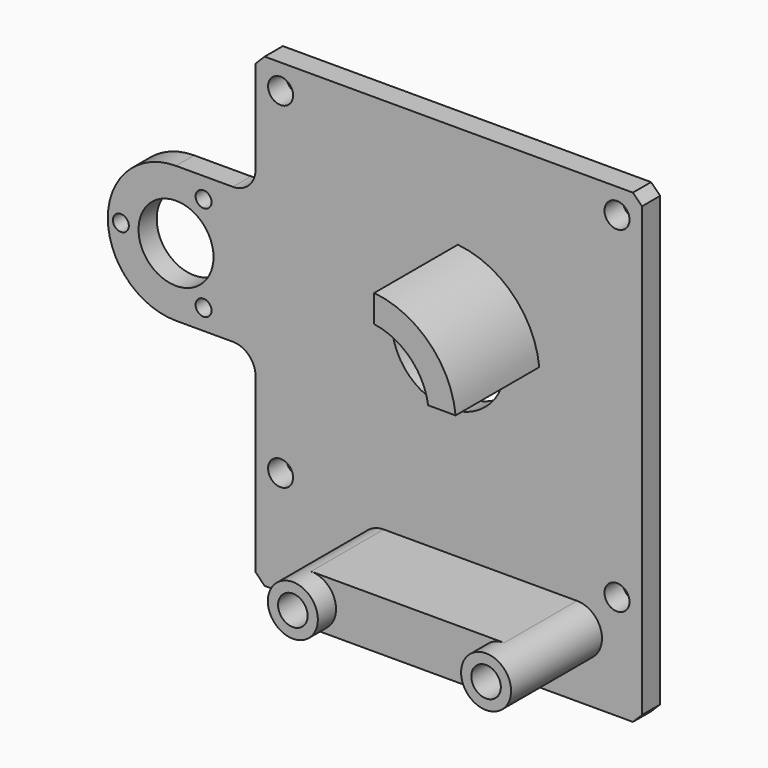
from build123d import *

# Parameters (mm, degrees)
F0_R     = 5.5
F0_R_2   = 3.25
F1_DEPTH = 30
F2_R     = 2.75
F2_R_2   = 1.75
F2_R_3   = 3.5
F2_R_4   = 8.25
F2_R_5   = 12.5
F3_DEPTH = 5
F5_DEPTH = 28
F7_DEPTH = 25
F8_SIZE  = 2


with BuildPart() as f1:
    # F0 (on Front) → F1 (new body)
    with BuildSketch(Plane.XZ):
        with Locations((28.2, -46.052)):
            Circle(F0_R)
        with Locations((28.2, -46.052)):
            Circle(F0_R_2, mode=Mode.SUBTRACT)
    extrude(amount=F1_DEPTH)



with BuildPart() as f1b:
    # F0 (on Front) → F1, piece 2 (new body)
    with BuildSketch(Plane.XZ):
        with Locations((-14.3, -46.052)):
            Circle(F0_R)
        with Locations((-14.3, -46.052)):
            Circle(F0_R_2, mode=Mode.SUBTRACT)
    extrude(amount=F1_DEPTH)


with BuildPart() as f1_1:
    add(f1.part)

    add(f1b.part)  # F3 merges F1b
    # F2 (on Front) → F3 (join)
    with BuildSketch(Plane.XZ):
        with BuildLine():
            Line((-47.5, 15), (-60, 15))
            ThreePointArc((-60, 15), (-75, 0), (-60, -15))
            Line((-60, -15), (-47.5, -15))
            ThreePointArc((-47.5, -15), (-43.9644660941, -16.4644660941), (-42.5, -20))
            Line((-42.5, -20), (-42.5, -60))
            Line((-42.5, -60), (42.5, -60))
            Line((42.5, -60), (42.5, 42.5))
            Line((42.5, 42.5), (-42.5, 42.5))
            Line((-42.5, 42.5), (-42.5, 20))
            ThreePointArc((-42.5, 20), (-43.9644660941, 16.4644660941), (-47.5, 15))
        make_face()
        with Locations((-37, -37)):
            Circle(F2_R, mode=Mode.SUBTRACT)
        with Locations((-53.9378221735, -10.5)):
            Circle(F2_R_2, mode=Mode.SUBTRACT)
        with Locations((-14.3, -46.052)):
            Circle(F2_R_3, mode=Mode.SUBTRACT)
        with Locations((28.2, -46.052)):
            Circle(F2_R_3, mode=Mode.SUBTRACT)
        with Locations((37, -37)):
            Circle(F2_R, mode=Mode.SUBTRACT)
        with Locations((-72.124355653, 0)):
            Circle(F2_R_2, mode=Mode.SUBTRACT)
        with Locations((-60, 0)):
            Circle(F2_R_4, mode=Mode.SUBTRACT)
        with Locations((-53.9378221735, 10.5)):
            Circle(F2_R_2, mode=Mode.SUBTRACT)
        with Locations((-37, 37)):
            Circle(F2_R, mode=Mode.SUBTRACT)
        Circle(F2_R_5, mode=Mode.SUBTRACT)
        with Locations((37, 37)):
            Circle(F2_R, mode=Mode.SUBTRACT)
    extrude(amount=F3_DEPTH)

    # F4 (on Front) → F5 (join)
    with BuildSketch(Plane.XZ):
        with BuildLine():
            Line((2, 19.8997487421), (2, 13.8564064606))
            ThreePointArc((2, 13.8564064606), (9.8994949366, 9.8994949366), (13.8564064606, 2))
            Line((13.8564064606, 2), (19.8997487421, 2))
            ThreePointArc((19.8997487421, 2), (14.1421356237, 14.1421356237), (2, 19.8997487421))
        make_face()
    extrude(amount=F5_DEPTH)

    # F6 (on Front) → F7 (join)
    with BuildSketch(Plane.XZ):
        with BuildLine():
            Line((28.2, -40.552), (-14.3, -40.552))
            ThreePointArc((-14.3, -40.552), (-8.8, -46.052), (-14.3, -51.552))
            Line((-14.3, -51.552), (28.2, -51.552))
            ThreePointArc((28.2, -51.552), (22.7, -46.052), (28.2, -40.552))
        make_face()
    extrude(amount=F7_DEPTH)

    # F8
    f8_edges = [f1_1.edges().sort_by_distance(p)[0] for p in [
        (-42.5, -2.5, 42.5),
        (42.5, -2.5, 42.5),
        (42.5, -2.5, -60),
        (-42.5, -2.5, -60),
    ]]
    chamfer(f8_edges, length=F8_SIZE)


solid = f1_1.part
